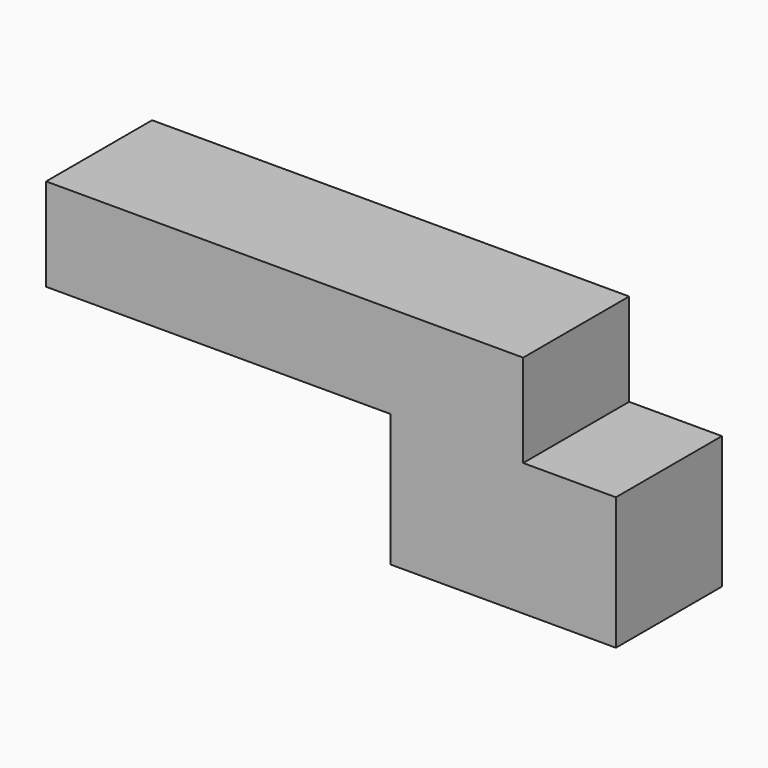
from build123d import *

# Parameters (mm, degrees)
F0_W     = 91.44
F0_H     = 25.4
F1_DEPTH = 17.78
F2_W     = 25.4
F2_H     = 25.4
F3_DEPTH = 25.4
F4_W     = 25.4
F4_H     = 25.4
F5_DEPTH = 17.78


with BuildPart() as f1:
    # F0 (on Top) → F1 (new body)
    with BuildSketch(Plane.XY):
        with Locations((-14.985616, 46.367901)):
            Rectangle(F0_W, F0_H)
    extrude(amount=F1_DEPTH)

    # F2 (on face) → F3 (join)
    with BuildSketch(Plane(origin=(0, 0, 0), x_dir=(1, 0, 0), z_dir=(0, 0, -1))):
        with Locations((18.034384, -46.367901)):
            Rectangle(F2_W, F2_H)
    extrude(amount=F3_DEPTH)

    # F4 (on face) → F5 (join)
    with BuildSketch(Plane.YZ.offset(30.734384)):
        with Locations((46.367901, -12.7)):
            Rectangle(F4_W, F4_H)
    extrude(amount=F5_DEPTH)


solid = f1.part
